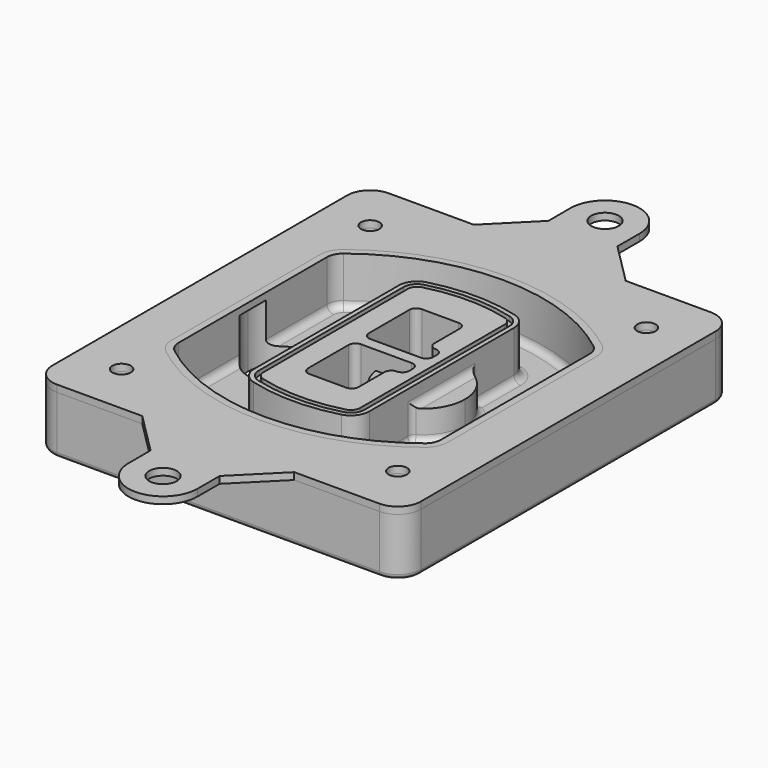
from build123d import *

# Parameters (mm, degrees)
F0_R      = 4
F1_DEPTH  = 25
F2_DEPTH  = 3
F3_DEPTH  = 18
F5_DEPTH  = 21
F6_DEPTH  = 2
F8_DEPTH  = 20
F9_DEPTH  = 16
F10_DEPTH = 25
F7_R      = 6
F7_R_2    = 4
F11_DEPTH = 6
F13_DEPTH = 9
F14_R     = 3
F15_R     = 2
F16_R     = 6
F16_R_2   = 4
F17_DEPTH = 3


with BuildPart() as f1:
    # F0 (on Top) → F1 (new body)
    with BuildSketch(Plane.XY):
        with BuildLine():
            ThreePointArc((14.05, 38.3825811321), (16.9789321881, 31.3115133202), (24.05, 28.3825811321))
            Line((24.05, 28.3825811321), (164.05, 28.3825811321))
            ThreePointArc((164.05, 28.3825811321), (171.1210678119, 31.3115133202), (174.05, 38.3825811321))
            Line((174.05, 38.3825811321), (174.05, 198.3825811321))
            ThreePointArc((174.05, 198.3825811321), (171.1210678119, 205.4536489439), (164.05, 208.3825811321))
            Line((164.05, 208.3825811321), (24.05, 208.3825811321))
            ThreePointArc((24.05, 208.3825811321), (16.9789321881, 205.4536489439), (14.05, 198.3825811321))
            Line((14.05, 198.3825811321), (14.05, 38.3825811321))
        make_face()
        with Locations((34.05, 50.8825811321)):
            Circle(F0_R, mode=Mode.SUBTRACT)
        with Locations((154.05, 50.8825811321)):
            Circle(F0_R, mode=Mode.SUBTRACT)
        with BuildLine():
            ThreePointArc((30.05, 158.6760234193), (31.4679615202, 164.8154295545), (35.4346153846, 169.7112011673))
            ThreePointArc((35.4346153846, 169.7112011673), (94.05, 189.8825811321), (152.6653846154, 169.7112011673))
            ThreePointArc((152.6653846154, 169.7112011673), (156.6320384798, 164.8154295545), (158.05, 158.6760234193))
            Line((158.05, 158.6760234193), (158.05, 78.0891388448))
            ThreePointArc((158.05, 78.0891388448), (156.6320384798, 71.9497327097), (152.6653846154, 67.0539610969))
            ThreePointArc((152.6653846154, 67.0539610969), (94.05, 46.8825811321), (35.4346153846, 67.0539610969))
            ThreePointArc((35.4346153846, 67.0539610969), (31.4679615202, 71.9497327097), (30.05, 78.0891388448))
            Line((30.05, 78.0891388448), (30.05, 158.6760234193))
        make_face(mode=Mode.SUBTRACT)
        with Locations((34.05, 185.8825811321)):
            Circle(F0_R, mode=Mode.SUBTRACT)
        with Locations((154.05, 185.8825811321)):
            Circle(F0_R, mode=Mode.SUBTRACT)
        with BuildLine():
            ThreePointArc((152.6653846154, 169.7112011673), (94.05, 189.8825811321), (35.4346153846, 169.7112011673))
            ThreePointArc((35.4346153846, 169.7112011673), (31.4679615202, 164.8154295545), (30.05, 158.6760234193))
            Line((30.05, 158.6760234193), (30.05, 78.0891388448))
            ThreePointArc((30.05, 78.0891388448), (31.4679615202, 71.9497327097), (35.4346153846, 67.0539610969))
            ThreePointArc((35.4346153846, 67.0539610969), (94.05, 46.8825811321), (152.6653846154, 67.0539610969))
            ThreePointArc((152.6653846154, 67.0539610969), (156.6320384798, 71.9497327097), (158.05, 78.0891388448))
            Line((158.05, 78.0891388448), (158.05, 158.6760234193))
            ThreePointArc((158.05, 158.6760234193), (156.6320384798, 164.8154295545), (152.6653846154, 169.7112011673))
        make_face()
        with BuildLine():
            Line((34.05, 78.0891388448), (34.05, 158.6760234193))
            ThreePointArc((34.05, 158.6760234193), (35.0628296573, 163.0613135158), (37.8961538462, 166.5582932393))
            ThreePointArc((37.8961538462, 166.5582932393), (94.05, 185.8825811321), (150.2038461538, 166.5582932393))
            ThreePointArc((150.2038461538, 166.5582932393), (153.0371703427, 163.0613135158), (154.05, 158.6760234193))
            Line((154.05, 158.6760234193), (154.05, 78.0891388448))
            ThreePointArc((154.05, 78.0891388448), (153.0371703427, 73.7038487483), (150.2038461538, 70.2068690248))
            ThreePointArc((150.2038461538, 70.2068690248), (94.05, 50.8825811321), (37.8961538462, 70.2068690248))
            ThreePointArc((37.8961538462, 70.2068690248), (35.0628296573, 73.7038487483), (34.05, 78.0891388448))
        make_face(mode=Mode.SUBTRACT)
        with BuildLine():
            ThreePointArc((37.8961538462, 166.5582932393), (35.0628296573, 163.0613135158), (34.05, 158.6760234193))
            Line((34.05, 158.6760234193), (34.05, 78.0891388448))
            ThreePointArc((34.05, 78.0891388448), (35.0628296573, 73.7038487483), (37.8961538462, 70.2068690248))
            ThreePointArc((37.8961538462, 70.2068690248), (94.05, 50.8825811321), (150.2038461538, 70.2068690248))
            ThreePointArc((150.2038461538, 70.2068690248), (153.0371703427, 73.7038487483), (154.05, 78.0891388448))
            Line((154.05, 78.0891388448), (154.05, 158.6760234193))
            ThreePointArc((154.05, 158.6760234193), (153.0371703427, 163.0613135158), (150.2038461538, 166.5582932393))
            ThreePointArc((150.2038461538, 166.5582932393), (94.05, 185.8825811321), (37.8961538462, 166.5582932393))
        make_face()
        with BuildLine():
            ThreePointArc((148.3576923077, 164.1936122933), (150.3410192399, 161.7457264869), (151.05, 158.6760234193))
            Line((151.05, 158.6760234193), (151.05, 78.0891388448))
            ThreePointArc((151.05, 78.0891388448), (150.3410192399, 75.0194357772), (148.3576923077, 72.5715499708))
            ThreePointArc((148.3576923077, 72.5715499708), (94.05, 53.8825811321), (39.7423076923, 72.5715499708))
            ThreePointArc((39.7423076923, 72.5715499708), (37.7589807601, 75.0194357772), (37.05, 78.0891388448))
            Line((37.05, 78.0891388448), (37.05, 158.6760234193))
            ThreePointArc((37.05, 158.6760234193), (37.7589807601, 161.7457264869), (39.7423076923, 164.1936122933))
            ThreePointArc((39.7423076923, 164.1936122933), (94.05, 182.8825811321), (148.3576923077, 164.1936122933))
        make_face(mode=Mode.SUBTRACT)
        with BuildLine():
            Line((151.05, 78.0891388448), (151.05, 158.6760234193))
            ThreePointArc((151.05, 158.6760234193), (150.3410192399, 161.7457264869), (148.3576923077, 164.1936122933))
            ThreePointArc((148.3576923077, 164.1936122933), (94.05, 182.8825811321), (39.7423076923, 164.1936122933))
            ThreePointArc((39.7423076923, 164.1936122933), (37.7589807601, 161.7457264869), (37.05, 158.6760234193))
            Line((37.05, 158.6760234193), (37.05, 78.0891388448))
            ThreePointArc((37.05, 78.0891388448), (37.7589807601, 75.0194357772), (39.7423076923, 72.5715499708))
            ThreePointArc((39.7423076923, 72.5715499708), (94.05, 53.8825811321), (148.3576923077, 72.5715499708))
            ThreePointArc((148.3576923077, 72.5715499708), (150.3410192399, 75.0194357772), (151.05, 78.0891388448))
        make_face()
    extrude(amount=-F1_DEPTH)

    # F0 (on Top) → F2 (join)
    with BuildSketch(Plane.XY):
        with BuildLine():
            ThreePointArc((37.8961538462, 166.5582932393), (35.0628296573, 163.0613135158), (34.05, 158.6760234193))
            Line((34.05, 158.6760234193), (34.05, 78.0891388448))
            ThreePointArc((34.05, 78.0891388448), (35.0628296573, 73.7038487483), (37.8961538462, 70.2068690248))
            ThreePointArc((37.8961538462, 70.2068690248), (94.05, 50.8825811321), (150.2038461538, 70.2068690248))
            ThreePointArc((150.2038461538, 70.2068690248), (153.0371703427, 73.7038487483), (154.05, 78.0891388448))
            Line((154.05, 78.0891388448), (154.05, 158.6760234193))
            ThreePointArc((154.05, 158.6760234193), (153.0371703427, 163.0613135158), (150.2038461538, 166.5582932393))
            ThreePointArc((150.2038461538, 166.5582932393), (94.05, 185.8825811321), (37.8961538462, 166.5582932393))
        make_face()
        with BuildLine():
            ThreePointArc((148.3576923077, 164.1936122933), (150.3410192399, 161.7457264869), (151.05, 158.6760234193))
            Line((151.05, 158.6760234193), (151.05, 78.0891388448))
            ThreePointArc((151.05, 78.0891388448), (150.3410192399, 75.0194357772), (148.3576923077, 72.5715499708))
            ThreePointArc((148.3576923077, 72.5715499708), (94.05, 53.8825811321), (39.7423076923, 72.5715499708))
            ThreePointArc((39.7423076923, 72.5715499708), (37.7589807601, 75.0194357772), (37.05, 78.0891388448))
            Line((37.05, 78.0891388448), (37.05, 158.6760234193))
            ThreePointArc((37.05, 158.6760234193), (37.7589807601, 161.7457264869), (39.7423076923, 164.1936122933))
            ThreePointArc((39.7423076923, 164.1936122933), (94.05, 182.8825811321), (148.3576923077, 164.1936122933))
        make_face(mode=Mode.SUBTRACT)
    extrude(amount=F2_DEPTH)

    # F0 (on Top) → F3 (cut)
    with BuildSketch(Plane.XY):
        with BuildLine():
            Line((151.05, 78.0891388448), (151.05, 158.6760234193))
            ThreePointArc((151.05, 158.6760234193), (150.3410192399, 161.7457264869), (148.3576923077, 164.1936122933))
            ThreePointArc((148.3576923077, 164.1936122933), (94.05, 182.8825811321), (39.7423076923, 164.1936122933))
            ThreePointArc((39.7423076923, 164.1936122933), (37.7589807601, 161.7457264869), (37.05, 158.6760234193))
            Line((37.05, 158.6760234193), (37.05, 78.0891388448))
            ThreePointArc((37.05, 78.0891388448), (37.7589807601, 75.0194357772), (39.7423076923, 72.5715499708))
            ThreePointArc((39.7423076923, 72.5715499708), (94.05, 53.8825811321), (148.3576923077, 72.5715499708))
            ThreePointArc((148.3576923077, 72.5715499708), (150.3410192399, 75.0194357772), (151.05, 78.0891388448))
        make_face()
    extrude(amount=-F3_DEPTH, mode=Mode.SUBTRACT)

    # F4 (on face) → F5 (join, through all)
    with BuildSketch(Plane.XY.offset(3)):
        with BuildLine():
            ThreePointArc((69.05, 79.13605345), (70.6988454002, 74.2716074128), (74.9657088123, 71.4123412437))
            ThreePointArc((74.9657088123, 71.4123412437), (94.05, 68.8825811321), (113.1342911877, 71.4123412437))
            ThreePointArc((113.1342911877, 71.4123412437), (117.4011545998, 74.2716074128), (119.05, 79.13605345))
            Line((119.05, 79.13605345), (119.05, 157.6291088141))
            ThreePointArc((119.05, 157.6291088141), (117.4011545998, 162.4935548514), (113.1342911877, 165.3528210204))
            ThreePointArc((113.1342911877, 165.3528210204), (94.05, 167.8825811321), (74.9657088123, 165.3528210204))
            ThreePointArc((74.9657088123, 165.3528210204), (70.6988454002, 162.4935548514), (69.05, 157.6291088141))
            Line((69.05, 157.6291088141), (69.05, 79.13605345))
        make_face()
        with BuildLine():
            ThreePointArc((112.6132183908, 163.4218929688), (115.8133659499, 161.2774433421), (117.05, 157.6291088141))
            Line((117.05, 157.6291088141), (117.05, 79.13605345))
            ThreePointArc((117.05, 79.13605345), (115.8133659499, 75.4877189221), (112.6132183908, 73.3432692953))
            ThreePointArc((112.6132183908, 73.3432692953), (94.05, 70.8825811321), (75.4867816092, 73.3432692953))
            ThreePointArc((75.4867816092, 73.3432692953), (72.2866340501, 75.4877189221), (71.05, 79.13605345))
            Line((71.05, 79.13605345), (71.05, 157.6291088141))
            ThreePointArc((71.05, 157.6291088141), (72.2866340501, 161.2774433421), (75.4867816092, 163.4218929688))
            ThreePointArc((75.4867816092, 163.4218929688), (94.05, 165.8825811321), (112.6132183908, 163.4218929688))
        make_face(mode=Mode.SUBTRACT)
        with BuildLine():
            Line((117.05, 79.13605345), (117.05, 157.6291088141))
            ThreePointArc((117.05, 157.6291088141), (115.8133659499, 161.2774433421), (112.6132183908, 163.4218929688))
            ThreePointArc((112.6132183908, 163.4218929688), (94.05, 165.8825811321), (75.4867816092, 163.4218929688))
            ThreePointArc((75.4867816092, 163.4218929688), (72.2866340501, 161.2774433421), (71.05, 157.6291088141))
            Line((71.05, 157.6291088141), (71.05, 79.13605345))
            ThreePointArc((71.05, 79.13605345), (72.2866340501, 75.4877189221), (75.4867816092, 73.3432692953))
            ThreePointArc((75.4867816092, 73.3432692953), (94.05, 70.8825811321), (112.6132183908, 73.3432692953))
            ThreePointArc((112.6132183908, 73.3432692953), (115.8133659499, 75.4877189221), (117.05, 79.13605345))
        make_face()
        with BuildLine():
            ThreePointArc((112.0921455939, 161.4909649173), (114.2255772999, 160.0613318328), (115.05, 157.6291088141))
            Line((115.05, 157.6291088141), (115.05, 79.13605345))
            ThreePointArc((115.05, 79.13605345), (114.2255772999, 76.7038304314), (112.0921455939, 75.2741973469))
            ThreePointArc((112.0921455939, 75.2741973469), (94.05, 72.8825811321), (76.0078544061, 75.2741973469))
            ThreePointArc((76.0078544061, 75.2741973469), (73.8744227001, 76.7038304314), (73.05, 79.13605345))
            Line((73.05, 79.13605345), (73.05, 157.6291088141))
            ThreePointArc((73.05, 157.6291088141), (73.8744227001, 160.0613318328), (76.0078544061, 161.4909649173))
            ThreePointArc((76.0078544061, 161.4909649173), (94.05, 163.8825811321), (112.0921455939, 161.4909649173))
        make_face(mode=Mode.SUBTRACT)
        with BuildLine():
            Line((115.05, 79.13605345), (115.05, 157.6291088141))
            ThreePointArc((115.05, 157.6291088141), (114.2255772999, 160.0613318328), (112.0921455939, 161.4909649173))
            ThreePointArc((112.0921455939, 161.4909649173), (94.05, 163.8825811321), (76.0078544061, 161.4909649173))
            ThreePointArc((76.0078544061, 161.4909649173), (73.8744227001, 160.0613318328), (73.05, 157.6291088141))
            Line((73.05, 157.6291088141), (73.05, 79.13605345))
            ThreePointArc((73.05, 79.13605345), (73.8744227001, 76.7038304314), (76.0078544061, 75.2741973469))
            ThreePointArc((76.0078544061, 75.2741973469), (94.05, 72.8825811321), (112.0921455939, 75.2741973469))
            ThreePointArc((112.0921455939, 75.2741973469), (114.2255772999, 76.7038304314), (115.05, 79.13605345))
        make_face()
        with BuildLine():
            Line((86.05, 115.8825811321), (108.05, 115.8825811321))
            ThreePointArc((108.05, 115.8825811321), (110.1713203436, 115.0039014756), (111.05, 112.8825811321))
            Line((111.05, 112.8825811321), (111.05, 110.8825811321))
            ThreePointArc((111.05, 110.8825811321), (110.1713203436, 108.7612607885), (108.05, 107.8825811321))
            ThreePointArc((108.05, 107.8825811321), (105.9286796564, 107.0039014756), (105.05, 104.8825811321))
            Line((105.05, 104.8825811321), (105.05, 90.8825811321))
            ThreePointArc((105.05, 90.8825811321), (104.1713203436, 88.7612607885), (102.05, 87.8825811321))
            Line((102.05, 87.8825811321), (86.05, 87.8825811321))
            ThreePointArc((86.05, 87.8825811321), (83.9286796564, 88.7612607885), (83.05, 90.8825811321))
            Line((83.05, 90.8825811321), (83.05, 112.8825811321))
            ThreePointArc((83.05, 112.8825811321), (83.9286796564, 115.0039014756), (86.05, 115.8825811321))
        make_face(mode=Mode.SUBTRACT)
        with BuildLine():
            ThreePointArc((86.05, 120.8825811321), (83.9286796564, 121.7612607885), (83.05, 123.8825811321))
            Line((83.05, 123.8825811321), (83.05, 145.8825811321))
            ThreePointArc((83.05, 145.8825811321), (83.9286796564, 148.0039014756), (86.05, 148.8825811321))
            Line((86.05, 148.8825811321), (102.05, 148.8825811321))
            ThreePointArc((102.05, 148.8825811321), (104.1713203436, 148.0039014756), (105.05, 145.8825811321))
            Line((105.05, 145.8825811321), (105.05, 131.8825811321))
            ThreePointArc((105.05, 131.8825811321), (105.9286796564, 129.7612607885), (108.05, 128.8825811321))
            ThreePointArc((108.05, 128.8825811321), (110.1713203436, 128.0039014756), (111.05, 125.8825811321))
            Line((111.05, 125.8825811321), (111.05, 123.8825811321))
            ThreePointArc((111.05, 123.8825811321), (110.1713203436, 121.7612607885), (108.05, 120.8825811321))
            Line((108.05, 120.8825811321), (86.05, 120.8825811321))
        make_face(mode=Mode.SUBTRACT)
    extrude(amount=-F5_DEPTH)

    # F4 (on face) → F6 (cut)
    with BuildSketch(Plane.XY.offset(3)):
        with BuildLine():
            Line((117.05, 79.13605345), (117.05, 157.6291088141))
            ThreePointArc((117.05, 157.6291088141), (115.8133659499, 161.2774433421), (112.6132183908, 163.4218929688))
            ThreePointArc((112.6132183908, 163.4218929688), (94.05, 165.8825811321), (75.4867816092, 163.4218929688))
            ThreePointArc((75.4867816092, 163.4218929688), (72.2866340501, 161.2774433421), (71.05, 157.6291088141))
            Line((71.05, 157.6291088141), (71.05, 79.13605345))
            ThreePointArc((71.05, 79.13605345), (72.2866340501, 75.4877189221), (75.4867816092, 73.3432692953))
            ThreePointArc((75.4867816092, 73.3432692953), (94.05, 70.8825811321), (112.6132183908, 73.3432692953))
            ThreePointArc((112.6132183908, 73.3432692953), (115.8133659499, 75.4877189221), (117.05, 79.13605345))
        make_face()
        with BuildLine():
            ThreePointArc((112.0921455939, 161.4909649173), (114.2255772999, 160.0613318328), (115.05, 157.6291088141))
            Line((115.05, 157.6291088141), (115.05, 79.13605345))
            ThreePointArc((115.05, 79.13605345), (114.2255772999, 76.7038304314), (112.0921455939, 75.2741973469))
            ThreePointArc((112.0921455939, 75.2741973469), (94.05, 72.8825811321), (76.0078544061, 75.2741973469))
            ThreePointArc((76.0078544061, 75.2741973469), (73.8744227001, 76.7038304314), (73.05, 79.13605345))
            Line((73.05, 79.13605345), (73.05, 157.6291088141))
            ThreePointArc((73.05, 157.6291088141), (73.8744227001, 160.0613318328), (76.0078544061, 161.4909649173))
            ThreePointArc((76.0078544061, 161.4909649173), (94.05, 163.8825811321), (112.0921455939, 161.4909649173))
        make_face(mode=Mode.SUBTRACT)
    extrude(amount=-F6_DEPTH, mode=Mode.SUBTRACT)

    # F7 (on face) → F8 (join)
    with BuildSketch(Plane(origin=(0, 0, -25), x_dir=(1, 0, 0), z_dir=(0, 0, -1))):
        with BuildLine():
            ThreePointArc((97.33842436, -118.3825811321), (110.8067035675, -104.9143019245), (124.274982775, -118.3825811321))
            Line((124.274982775, -118.3825811321), (129.274982775, -118.3825811321))
            ThreePointArc((129.274982775, -118.3825811321), (110.8067035675, -99.9143019245), (92.33842436, -118.3825811321))
            Line((92.33842436, -118.3825811321), (97.33842436, -118.3825811321))
        make_face()
        with BuildLine():
            Line((97.33842436, -118.3825811321), (124.274982775, -118.3825811321))
            ThreePointArc((124.274982775, -118.3825811321), (110.8067035675, -104.9143019245), (97.33842436, -118.3825811321))
        make_face()
        with BuildLine():
            ThreePointArc((97.33842436, -118.3825811321), (110.8067035675, -131.8508603396), (124.274982775, -118.3825811321))
            Line((124.274982775, -118.3825811321), (97.33842436, -118.3825811321))
        make_face()
        with BuildLine():
            Line((129.274982775, -118.3825811321), (124.274982775, -118.3825811321))
            ThreePointArc((124.274982775, -118.3825811321), (110.8067035675, -131.8508603396), (97.33842436, -118.3825811321))
            Line((97.33842436, -118.3825811321), (92.33842436, -118.3825811321))
            ThreePointArc((92.33842436, -118.3825811321), (110.8067035675, -136.8508603396), (129.274982775, -118.3825811321))
        make_face()
    extrude(amount=-F8_DEPTH)

    # F7 (on face) → F9 (cut)
    with BuildSketch(Plane(origin=(0, 0, -25), x_dir=(1, 0, 0), z_dir=(0, 0, -1))):
        with BuildLine():
            Line((97.33842436, -118.3825811321), (124.274982775, -118.3825811321))
            ThreePointArc((124.274982775, -118.3825811321), (110.8067035675, -104.9143019245), (97.33842436, -118.3825811321))
        make_face()
        with BuildLine():
            ThreePointArc((97.33842436, -118.3825811321), (110.8067035675, -131.8508603396), (124.274982775, -118.3825811321))
            Line((124.274982775, -118.3825811321), (97.33842436, -118.3825811321))
        make_face()
    extrude(amount=-F9_DEPTH, mode=Mode.SUBTRACT)

    # F7 (on face) → F10 (cut)
    with BuildSketch(Plane(origin=(0, 0, -25), x_dir=(1, 0, 0), z_dir=(0, 0, -1))):
        with BuildLine():
            Line((35.0181770675, -118.3825811321), (61.9547354825, -118.3825811321))
            ThreePointArc((61.9547354825, -118.3825811321), (48.486456275, -104.9143019245), (35.0181770675, -118.3825811321))
        make_face()
        with BuildLine():
            ThreePointArc((35.0181770675, -118.3825811321), (48.486456275, -131.8508603396), (61.9547354825, -118.3825811321))
            Line((61.9547354825, -118.3825811321), (35.0181770675, -118.3825811321))
        make_face()
    extrude(amount=-F10_DEPTH, mode=Mode.SUBTRACT)

    # F7 (on face) → F11 (cut)
    with BuildSketch(Plane(origin=(0, 0, -25), x_dir=(1, 0, 0), z_dir=(0, 0, -1))):
        with Locations((154.05, -185.8825811321)):
            Circle(F7_R)
        with Locations((154.05, -185.8825811321)):
            Circle(F7_R_2, mode=Mode.SUBTRACT)
        with Locations((154.05, -185.8825811321)):
            Circle(F7_R)
        with Locations((154.05, -185.8825811321)):
            Circle(F7_R_2, mode=Mode.SUBTRACT)
        with Locations((34.05, -185.8825811321)):
            Circle(F7_R)
        with Locations((34.05, -185.8825811321)):
            Circle(F7_R_2, mode=Mode.SUBTRACT)
        with Locations((34.05, -185.8825811321)):
            Circle(F7_R)
        with Locations((34.05, -185.8825811321)):
            Circle(F7_R_2, mode=Mode.SUBTRACT)
        with Locations((34.05, -50.8825811321)):
            Circle(F7_R)
        with Locations((34.05, -50.8825811321)):
            Circle(F7_R_2, mode=Mode.SUBTRACT)
        with Locations((34.05, -50.8825811321)):
            Circle(F7_R)
        with Locations((34.05, -50.8825811321)):
            Circle(F7_R_2, mode=Mode.SUBTRACT)
        with Locations((154.05, -50.8825811321)):
            Circle(F7_R)
        with Locations((154.05, -50.8825811321)):
            Circle(F7_R_2, mode=Mode.SUBTRACT)
        with Locations((154.05, -50.8825811321)):
            Circle(F7_R)
        with Locations((154.05, -50.8825811321)):
            Circle(F7_R_2, mode=Mode.SUBTRACT)
    extrude(amount=-F11_DEPTH, mode=Mode.SUBTRACT)

    # F12 (on face) → F13 (cut, through all)
    with BuildSketch(Plane(origin=(0, 0, -9), x_dir=(1, 0, 0), z_dir=(0, 0, -1))):
        with BuildLine():
            Line((105.05, -104.8825811321), (105.05, -100.8344273567))
            ThreePointArc((105.05, -100.8344273567), (96.6196536419, -106.5586667507), (92.5084157545, -115.8825811321))
            Line((92.5084157545, -115.8825811321), (97.5724848595, -115.8825811321))
            ThreePointArc((97.5724848595, -115.8825811321), (100.2357188154, -110.0369939039), (105.3036447004, -106.0898642673))
            ThreePointArc((105.3036447004, -106.0898642673), (105.1140958889, -105.4994012441), (105.05, -104.8825811321))
        make_face()
        with BuildLine():
            ThreePointArc((105.3036447004, -130.6752979968), (100.2357188154, -126.7281683602), (97.5724848595, -120.8825811321))
            Line((97.5724848595, -120.8825811321), (92.5084157545, -120.8825811321))
            ThreePointArc((92.5084157545, -120.8825811321), (96.6196536419, -130.2064955134), (105.05, -135.9307349074))
            Line((105.05, -135.9307349074), (105.05, -131.8825811321))
            ThreePointArc((105.05, -131.8825811321), (105.1140958889, -131.26576102), (105.3036447004, -130.6752979968))
        make_face()
        with BuildLine():
            ThreePointArc((105.3036447004, -106.0898642673), (100.2357188154, -110.0369939039), (97.5724848595, -115.8825811321))
            Line((97.5724848595, -115.8825811321), (108.05, -115.8825811321))
            ThreePointArc((108.05, -115.8825811321), (110.1713203436, -115.0039014756), (111.05, -112.8825811321))
            Line((111.05, -112.8825811321), (111.05, -110.8825811321))
            ThreePointArc((111.05, -110.8825811321), (110.1713203436, -108.7612607885), (108.05, -107.8825811321))
            ThreePointArc((108.05, -107.8825811321), (106.4101599782, -107.3947365219), (105.3036447004, -106.0898642673))
        make_face()
        with BuildLine():
            Line((108.05, -120.8825811321), (97.5724848595, -120.8825811321))
            ThreePointArc((97.5724848595, -120.8825811321), (100.2357188154, -126.7281683602), (105.3036447004, -130.6752979968))
            ThreePointArc((105.3036447004, -130.6752979968), (106.4101599782, -129.3704257422), (108.05, -128.8825811321))
            ThreePointArc((108.05, -128.8825811321), (110.1713203436, -128.0039014756), (111.05, -125.8825811321))
            Line((111.05, -125.8825811321), (111.05, -123.8825811321))
            ThreePointArc((111.05, -123.8825811321), (110.1713203436, -121.7612607885), (108.05, -120.8825811321))
        make_face()
    extrude(amount=F13_DEPTH, mode=Mode.SUBTRACT)

    # F14
    f14_edges = [f1.edges().sort_by_distance(p)[0] for p in [
        (37.05, 94.679105, -18),
        (37.05, 142.086057, -18),
        (119.05, 118.382581, -5),
        (119.05, 134.909087, -11.5),
        (119.05, 101.856075, -11.5),
        (119.05, 90.496064, -18),
        (129.274983, 118.382581, -18),
    ]]
    fillet(f14_edges, radius=F14_R)

    # F15
    f15_edges = [f1.edges().sort_by_distance(p)[0] for p in [
        (94.05, 28.382581, -25),
    ]]
    fillet(f15_edges, radius=F15_R)


with BuildPart() as f17:
    # F16 (on face) → F17 (new body, through all)
    with BuildSketch(Plane.XY):
        with BuildLine():
            Line((127.05, 28.3825811321), (61.05, 28.3825811321))
            Line((61.05, 28.3825811321), (79.05, 10.3825811321))
            Line((79.05, 10.3825811321), (79.05, -1.6174188679))
            ThreePointArc((79.05, -1.6174188679), (94.05, -16.6174188679), (109.05, -1.6174188679))
            Line((109.05, -1.6174188679), (109.05, 10.3825811321))
            Line((109.05, 10.3825811321), (127.05, 28.3825811321))
        make_face()
        with Locations((94.05, -1.6174188679)):
            Circle(F16_R, mode=Mode.SUBTRACT)
        with BuildLine():
            Line((79.05, 226.3825811321), (61.05, 208.3825811321))
            Line((61.05, 208.3825811321), (127.05, 208.3825811321))
            Line((127.05, 208.3825811321), (109.05, 226.3825811321))
            Line((109.05, 226.3825811321), (109.05, 238.3825811321))
            ThreePointArc((109.05, 238.3825811321), (94.05, 253.3825811321), (79.05, 238.3825811321))
            Line((79.05, 238.3825811321), (79.05, 226.3825811321))
        make_face()
        with Locations((94.05, 238.3825811321)):
            Circle(F16_R, mode=Mode.SUBTRACT)
        with BuildLine():
            Line((127.05, 208.3825811321), (61.05, 208.3825811321))
            Line((61.05, 208.3825811321), (24.05, 208.3825811321))
            ThreePointArc((24.05, 208.3825811321), (16.9789321881, 205.4536489439), (14.05, 198.3825811321))
            Line((14.05, 198.3825811321), (14.05, 38.3825811321))
            ThreePointArc((14.05, 38.3825811321), (16.9789321881, 31.3115133202), (24.05, 28.3825811321))
            Line((24.05, 28.3825811321), (61.05, 28.3825811321))
            Line((61.05, 28.3825811321), (127.05, 28.3825811321))
            Line((127.05, 28.3825811321), (164.05, 28.3825811321))
            ThreePointArc((164.05, 28.3825811321), (171.1210678119, 31.3115133202), (174.05, 38.3825811321))
            Line((174.05, 38.3825811321), (174.05, 198.3825811321))
            ThreePointArc((174.05, 198.3825811321), (171.1210678119, 205.4536489439), (164.05, 208.3825811321))
            Line((164.05, 208.3825811321), (127.05, 208.3825811321))
        make_face()
        with Locations((34.05, 50.8825811321)):
            Circle(F16_R_2, mode=Mode.SUBTRACT)
        with BuildLine():
            ThreePointArc((34.05, 158.6760234193), (35.0628296573, 163.0613135158), (37.8961538462, 166.5582932393))
            ThreePointArc((37.8961538462, 166.5582932393), (94.05, 185.8825811321), (150.2038461538, 166.5582932393))
            ThreePointArc((150.2038461538, 166.5582932393), (153.0371703427, 163.0613135158), (154.05, 158.6760234193))
            Line((154.05, 158.6760234193), (154.05, 78.0891388448))
            ThreePointArc((154.05, 78.0891388448), (153.0371703427, 73.7038487483), (150.2038461538, 70.2068690248))
            ThreePointArc((150.2038461538, 70.2068690248), (94.05, 50.8825811321), (37.8961538462, 70.2068690248))
            ThreePointArc((37.8961538462, 70.2068690248), (35.0628296573, 73.7038487483), (34.05, 78.0891388448))
            Line((34.05, 78.0891388448), (34.05, 158.6760234193))
        make_face(mode=Mode.SUBTRACT)
        with Locations((154.05, 50.8825811321)):
            Circle(F16_R_2, mode=Mode.SUBTRACT)
        with Locations((34.05, 185.8825811321)):
            Circle(F16_R_2, mode=Mode.SUBTRACT)
        with Locations((154.05, 185.8825811321)):
            Circle(F16_R_2, mode=Mode.SUBTRACT)
    extrude(amount=F17_DEPTH)


solid = Compound([f1.part, f17.part])
